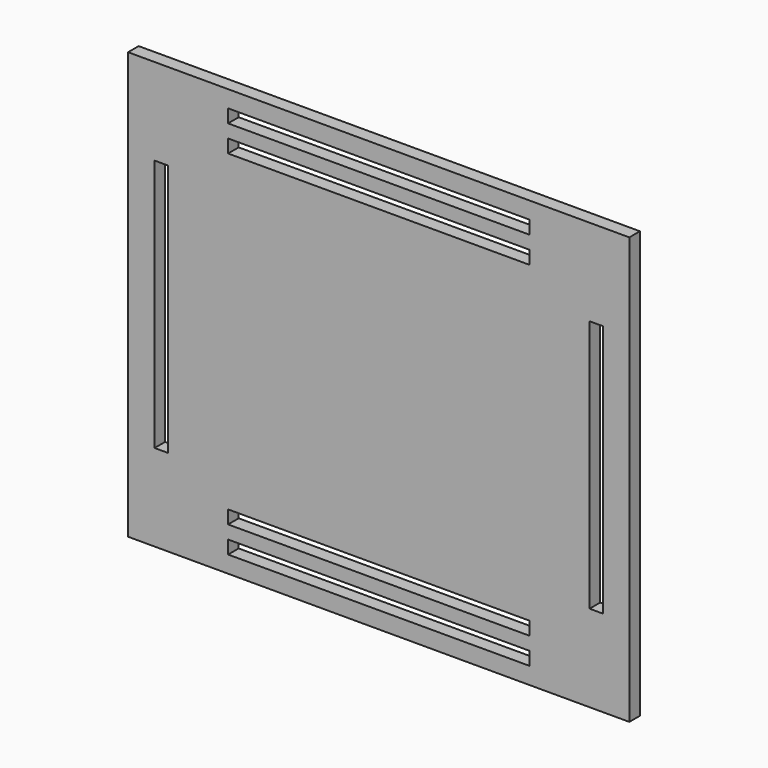
from build123d import *

# Parameters (mm, degrees)
F0_W     = 416
F0_H     = 354
F0_W_2   = 250
F0_H_2   = 11
F0_W_3   = 11
F0_H_3   = 210
F1_DEPTH = 11


with BuildPart() as f1:
    # F0 (on Front) → F1 (new body)
    with BuildSketch(Plane.XZ):
        Rectangle(F0_W, F0_H)
        with Locations((0, -157.5)):
            Rectangle(F0_W_2, F0_H_2, mode=Mode.SUBTRACT)
        with Locations((0, -135.5)):
            Rectangle(F0_W_2, F0_H_2, mode=Mode.SUBTRACT)
        with Locations((-180.5, 0)):
            Rectangle(F0_W_3, F0_H_3, mode=Mode.SUBTRACT)
        with Locations((180.5, 0)):
            Rectangle(F0_W_3, F0_H_3, mode=Mode.SUBTRACT)
        with Locations((0, 135.5)):
            Rectangle(F0_W_2, F0_H_2, mode=Mode.SUBTRACT)
        with Locations((0, 157.5)):
            Rectangle(F0_W_2, F0_H_2, mode=Mode.SUBTRACT)
    extrude(amount=F1_DEPTH)


solid = f1.part
